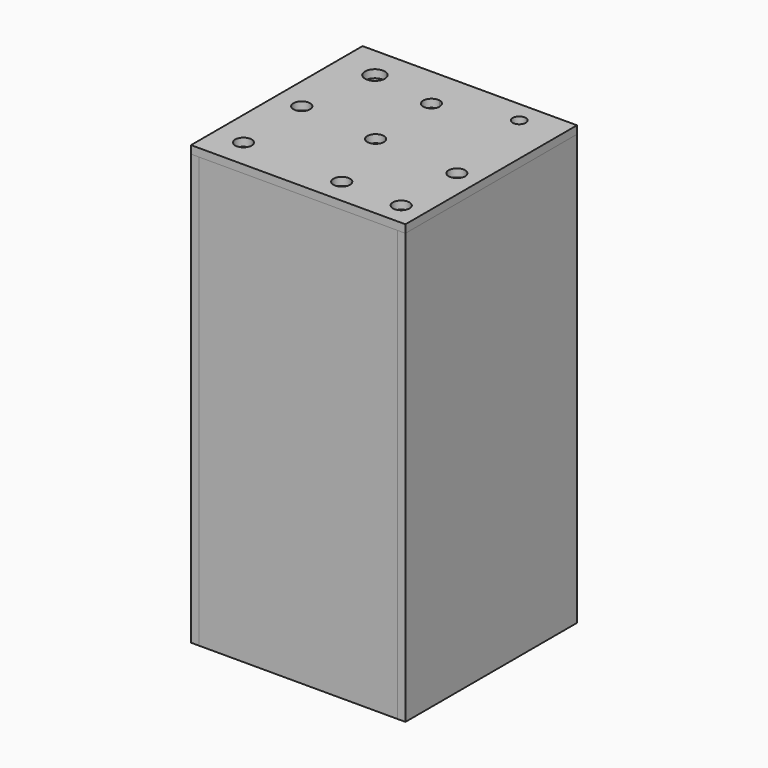
from build123d import *

# Parameters (mm, degrees)
F0_W      = 300
F0_H      = 300
F1_DEPTH  = 12
F2_W      = 300
F2_H      = 650
F3_DEPTH  = 12
F4_W      = 300
F4_H      = 650
F5_DEPTH  = 12
F6_W      = 300
F6_H      = 12
F7_DEPTH  = 300
F8_W      = 324
F8_H      = 650
F9_DEPTH  = 12
F10_W     = 324
F10_H     = 650
F11_DEPTH = 12
F12_W     = 324
F12_H     = 324
F13_DEPTH = 12
F14_R     = 15
F14_R_2   = 10
F14_R_3   = 12.5
F15_DEPTH = 25


with BuildPart() as f1:
    # F0 (on Top) → F1 (new body)
    with BuildSketch(Plane.XY):
        with Locations((-8.9463724196, -7.7756721587)):
            Rectangle(F0_W, F0_H)
    extrude(amount=F1_DEPTH)


with BuildPart() as f3:
    # F2 (on face) → F3 (new body)
    with BuildSketch(Plane.XZ.offset(157.7756721587)):
        with Locations((-8.9463724196, 325)):
            Rectangle(F2_W, F2_H)
    extrude(amount=F3_DEPTH)


with BuildPart() as f5:
    # F4 (on face) → F5 (new body)
    with BuildSketch(Plane(origin=(0, 142.2243278413, 0), x_dir=(-1, 0, 0), z_dir=(0, 1, 0))):
        with Locations((8.9463724196, 325)):
            Rectangle(F4_W, F4_H)
    extrude(amount=F5_DEPTH)


with BuildPart() as f7:
    # F6 (on face) → F7 (new body, through all)
    with BuildSketch(Plane(origin=(0, -157.7756721587, 0), x_dir=(-1, 0, 0), z_dir=(0, 1, 0))):
        with Locations((8.9463724196, 494)):
            Rectangle(F6_W, F6_H)
    extrude(amount=F7_DEPTH)


with BuildPart() as f9:
    # F8 (on face) → F9 (new body)
    with BuildSketch(Plane.YZ.offset(141.0536275804)):
        with Locations((-7.7756721587, 325)):
            Rectangle(F8_W, F8_H)
    extrude(amount=F9_DEPTH)


with BuildPart() as f11:
    # F10 (on face) → F11 (new body)
    with BuildSketch(Plane(origin=(-158.9463724196, 0, 0), x_dir=(0, -1, 0), z_dir=(-1, 0, 0))):
        with Locations((7.7756721587, 325)):
            Rectangle(F10_W, F10_H)
    extrude(amount=F11_DEPTH)


with BuildPart() as f13:
    # F12 (on face) → F13 (new body)
    with BuildSketch(Plane.XY.offset(650)):
        with Locations((-8.9463724196, -7.7756721587)):
            Rectangle(F12_W, F12_H)
    extrude(amount=F13_DEPTH)

    # F14 (on face) → F15 (cut)
    with BuildSketch(Plane.XY.offset(662)):
        with Locations((-113.2700666785, 105.4725795984)):
            Circle(F14_R)
        with BuildLine():
            ThreePointArc((-17.1423703304, 77.9141689984), (-7.357789919, 80.9747914405), (-3.1535729766, 90.325191617))
            ThreePointArc((-3.1535729766, 90.325191617), (-3.1574254863, 90.6355106494), (-3.1689806409, 90.9456384006))
            ThreePointArc((-3.1689806409, 90.9456384006), (-4.0057926873, 93.692128302), (-4.7634123003, 96.4615097676))
            ThreePointArc((-4.7634123003, 96.4615097676), (-8.3592842629, 100.4762187651), (-13.311225583, 102.6037668067))
            ThreePointArc((-13.311225583, 102.6037668067), (-14.4526765002, 90.1388455994), (-17.1423703304, 77.9141689984))
        make_face()
        with BuildLine():
            ThreePointArc((-13.311225583, 102.6037668067), (-28.0057467489, 92.2419083669), (-17.1423703304, 77.9141689984))
            ThreePointArc((-17.1423703304, 77.9141689984), (-14.4526765002, 90.1388455994), (-13.311225583, 102.6037668067))
        make_face()
        with Locations((92.0611768961, 121.4614883065)):
            Circle(F14_R_2)
        with Locations((-10.6044458225, -21.5971637517)):
            Circle(F14_R_3)
        with Locations((-130.94201684, -10.6573840603)):
            Circle(F14_R_3)
        with Locations((118.989855051, -30.0123784691)):
            Circle(F14_R_3)
        with Locations((118.989855051, -135.2025717497)):
            Circle(F14_R_3)
        with Locations((26.4225006104, -131.8364739418)):
            Circle(F14_R_3)
        with Locations((-126.734405756, -125.9458363056)):
            Circle(F14_R_3)
    extrude(amount=-F15_DEPTH, mode=Mode.SUBTRACT)


solid = Compound([f1.part, f3.part, f5.part, f7.part, f9.part, f11.part, f13.part])
